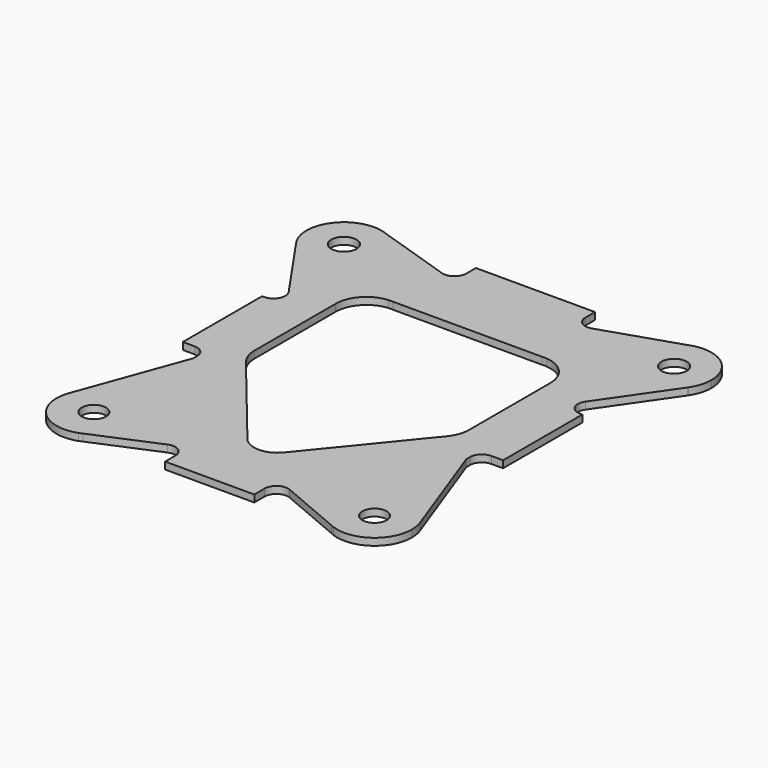
from build123d import *

# Parameters (mm, degrees)
F0_R     = 5.15
F0_R_2   = 5.35
F1_DEPTH = 3


with BuildPart() as f1:
    # F0 (on Top) → F1 (new body)
    with BuildSketch(Plane.XY):
        with BuildLine():
            Line((-18.9, -13), (0, -13))
            Line((0, -13), (18.9, -13))
            Line((18.9, -13), (18.9, -7.5471567511))
            ThreePointArc((18.9, -7.5471567511), (21.1385310794, -3.3789089897), (25.8497157602, -2.9429620925))
            Line((25.8497157602, -2.9429620925), (52.6252323996, -14.2814589745))
            ThreePointArc((52.6252323996, -14.2814589745), (48.8117732228, 11.7040295779), (74.3452534861, 5.5534627876))
            Line((74.3452534861, 5.5534627876), (57.8907951768, 50.621942028))
            Line((57.8907951768, 50.621942028), (57.8907951768, 52.621942028))
            ThreePointArc((57.8907951768, 52.621942028), (59.3552612709, 56.1574759339), (62.8907951768, 57.621942028))
            Line((62.8907951768, 57.621942028), (67.8907951768, 57.621942028))
            Line((67.8907951768, 57.621942028), (67.8907951768, 99.621942028))
            Line((67.8907951768, 99.621942028), (67.0134539994, 99.621942028))
            ThreePointArc((67.0134539994, 99.621942028), (62.5856321018, 102.2993587156), (62.8998598996, 107.4641847308))
            Line((62.8998598996, 107.4641847308), (82.9549976553, 136.4901001683))
            ThreePointArc((82.9549976553, 136.4901001683), (57.5400115252, 135.8254535138), (64.1829778441, 160.3659154829))
            Line((64.1829778441, 160.3659154829), (31.8054457349, 149.7677431215))
            ThreePointArc((31.8054457349, 149.7677431215), (27.315483743, 150.4713614419), (25.25, 154.5196467995))
            Line((25.25, 154.5196467995), (25.25, 159.621942028))
            Line((25.25, 159.621942028), (0, 159.621942028))
            Line((0, 159.621942028), (-25.25, 159.621942028))
            Line((-25.25, 159.621942028), (-25.25, 154.5196467995))
            ThreePointArc((-25.25, 154.5196467995), (-27.315483743, 150.4713614419), (-31.8054457349, 149.7677431215))
            Line((-31.8054457349, 149.7677431215), (-64.1829778441, 160.3659154829))
            ThreePointArc((-64.1829778441, 160.3659154829), (-56.8961398594, 154.5388556989), (-54.15, 145.621942028))
            ThreePointArc((-54.15, 145.621942028), (-65.2101259326, 130.5130173006), (-82.9549976553, 136.4901001683))
            Line((-82.9549976553, 136.4901001683), (-62.8998598996, 107.4641847308))
            ThreePointArc((-62.8998598996, 107.4641847308), (-62.5856321018, 102.2993587156), (-67.0134539994, 99.621942028))
            Line((-67.0134539994, 99.621942028), (-67.8907951768, 99.621942028))
            Line((-67.8907951768, 99.621942028), (-67.8907951768, 57.621942028))
            Line((-67.8907951768, 57.621942028), (-62.8907951768, 57.621942028))
            ThreePointArc((-62.8907951768, 57.621942028), (-59.3552612709, 56.1574759339), (-57.8907951768, 52.621942028))
            Line((-57.8907951768, 52.621942028), (-57.8907951768, 50.621942028))
            Line((-57.8907951768, 50.621942028), (-74.3452534861, 5.5534627876))
            ThreePointArc((-74.3452534861, 5.5534627876), (-56.6781892121, 15.5967908198), (-43.65, 0))
            ThreePointArc((-43.65, 0), (-46.0800974954, -8.4337842495), (-52.6252323996, -14.2814589745))
            Line((-52.6252323996, -14.2814589745), (-25.8497157602, -2.9429620925))
            ThreePointArc((-25.8497157602, -2.9429620925), (-21.1385310794, -3.3789089897), (-18.9, -7.5471567511))
            Line((-18.9, -7.5471567511), (-18.9, -13))
        make_face()
        with BuildLine():
            Line((-31.5007925391, 123.621942028), (0, 123.621942028))
            Line((0, 123.621942028), (31.5007925391, 123.621942028))
            ThreePointArc((31.5007925391, 123.621942028), (32.5003962696, 123.6604300644), (33.5, 123.621942028))
            ThreePointArc((33.5, 123.621942028), (42.0051009072, 119.5295106115), (45.5, 110.7619330287))
            ThreePointArc((45.5, 110.7619330287), (45.5002972018, 110.7111819333), (45.5003962696, 110.6604300644))
            ThreePointArc((45.5003962696, 110.6604300644), (45.5002972018, 110.6096781955), (45.5, 110.5589271001))
            Line((45.5, 110.5589271001), (45.5, 67.6264936436))
            ThreePointArc((45.5, 67.6264936436), (44.7475202166, 63.2677956104), (42.5771925315, 59.413687139))
            Line((42.5771925315, 59.413687139), (7.7516868511, 16.6824568887))
            Line((7.7516868511, 16.6824568887), (0, 7.1710626049))
            Line((0, 7.1710626049), (-7.7516866199, 16.6824566051))
            Line((-7.7516866199, 16.6824566051), (-42.5771925315, 59.413687139))
            ThreePointArc((-42.5771925315, 59.413687139), (-44.7475202166, 63.2677956104), (-45.5, 67.6264936436))
            Line((-45.5, 67.6264936436), (-45.5, 110.5589271001))
            ThreePointArc((-45.5, 110.5589271001), (-45.5003962696, 110.6604300644), (-45.5, 110.7619330287))
            ThreePointArc((-45.5, 110.7619330287), (-42.0051009072, 119.5295106115), (-33.5, 123.621942028))
            ThreePointArc((-33.5, 123.621942028), (-32.5003962696, 123.6604300644), (-31.5007925391, 123.621942028))
        make_face(mode=Mode.SUBTRACT)
        with BuildLine():
            ThreePointArc((74.3452534861, 5.5534627876), (48.8117732228, 11.7040295779), (52.6252323996, -14.2814589745))
            Line((52.6252323996, -14.2814589745), (54.0278478598, -14.8754176733))
            Line((54.0278478598, -14.8754176733), (74.3452534861, 5.5534627876))
        make_face()
        with Locations((59.5, 0)):
            Circle(F0_R, mode=Mode.SUBTRACT)
        with BuildLine():
            Line((54.0278478598, -14.8754176733), (52.6252323996, -14.2814589745))
            ThreePointArc((52.6252323996, -14.2814589745), (53.31940104, -14.5952970678), (54.0278478598, -14.8754176733))
        make_face()
        with BuildLine():
            Line((-54.0278478598, -14.8754176733), (-52.6252323996, -14.2814589745))
            ThreePointArc((-52.6252323996, -14.2814589745), (-46.0800974954, -8.4337842495), (-43.65, 0))
            ThreePointArc((-43.65, 0), (-56.6781892121, 15.5967908198), (-74.3452534861, 5.5534627876))
            Line((-74.3452534861, 5.5534627876), (-54.0278478598, -14.8754176733))
        make_face()
        with Locations((-59.5, 0)):
            Circle(F0_R, mode=Mode.SUBTRACT)
        with BuildLine():
            ThreePointArc((-54.0278478598, -14.8754176733), (-53.31940104, -14.5952970678), (-52.6252323996, -14.2814589745))
            Line((-52.6252323996, -14.2814589745), (-54.0278478598, -14.8754176733))
        make_face()
        with BuildLine():
            Line((74.3452534861, 5.5534627876), (54.0278478598, -14.8754176733))
            ThreePointArc((54.0278478598, -14.8754176733), (68.5688722722, -12.9991559615), (75.35, 0))
            ThreePointArc((75.35, 0), (75.0967908198, 2.8218107879), (74.3452534861, 5.5534627876))
        make_face()
        with BuildLine():
            ThreePointArc((-74.3452534861, 5.5534627876), (-70.7382626073, -11.1769384703), (-54.0278478598, -14.8754176733))
            Line((-54.0278478598, -14.8754176733), (-74.3452534861, 5.5534627876))
        make_face()
        with BuildLine():
            ThreePointArc((64.1829778441, 160.3659154829), (57.5400115252, 135.8254535138), (82.9549976553, 136.4901001683))
            Line((82.9549976553, 136.4901001683), (83.1240413462, 136.7347580678))
            Line((83.1240413462, 136.7347580678), (65.9729166922, 160.9518180885))
            Line((65.9729166922, 160.9518180885), (64.1829778441, 160.3659154829))
        make_face()
        with Locations((70, 145.621942028)):
            Circle(F0_R_2, mode=Mode.SUBTRACT)
        with BuildLine():
            Line((83.1240413462, 136.7347580678), (82.9549976553, 136.4901001683))
            ThreePointArc((82.9549976553, 136.4901001683), (83.0400932966, 136.6120326601), (83.1240413462, 136.7347580678))
        make_face()
        with BuildLine():
            Line((65.9729166922, 160.9518180885), (83.1240413462, 136.7347580678))
            ThreePointArc((83.1240413462, 136.7347580678), (85.1531936459, 140.9740153578), (85.85, 145.621942028))
            ThreePointArc((85.85, 145.621942028), (79.6797011724, 158.1728736752), (65.9729166922, 160.9518180885))
        make_face()
        with BuildLine():
            ThreePointArc((65.9729166922, 160.9518180885), (65.0692370204, 160.6854766875), (64.1829778441, 160.3659154829))
            Line((64.1829778441, 160.3659154829), (65.9729166922, 160.9518180885))
        make_face()
        with BuildLine():
            ThreePointArc((-83.1240413462, 136.7347580678), (-83.0400932966, 136.6120326601), (-82.9549976553, 136.4901001683))
            Line((-82.9549976553, 136.4901001683), (-83.1240413462, 136.7347580678))
        make_face()
        with BuildLine():
            Line((-83.1240413462, 136.7347580678), (-82.9549976553, 136.4901001683))
            ThreePointArc((-82.9549976553, 136.4901001683), (-65.2101259326, 130.5130173006), (-54.15, 145.621942028))
            ThreePointArc((-54.15, 145.621942028), (-56.8961398594, 154.5388556989), (-64.1829778441, 160.3659154829))
            Line((-64.1829778441, 160.3659154829), (-65.9729166922, 160.9518180885))
            Line((-65.9729166922, 160.9518180885), (-83.1240413462, 136.7347580678))
        make_face()
        with Locations((-70, 145.621942028)):
            Circle(F0_R_2, mode=Mode.SUBTRACT)
        with BuildLine():
            ThreePointArc((-65.9729166922, 160.9518180885), (-82.9346496049, 154.7825828134), (-83.1240413462, 136.7347580678))
            Line((-83.1240413462, 136.7347580678), (-65.9729166922, 160.9518180885))
        make_face()
        with BuildLine():
            ThreePointArc((-64.1829778441, 160.3659154829), (-65.0692370204, 160.6854766875), (-65.9729166922, 160.9518180885))
            Line((-65.9729166922, 160.9518180885), (-64.1829778441, 160.3659154829))
        make_face()
        with BuildLine():
            Line((0, 7.1710626049), (7.7516868511, 16.6824568887))
            ThreePointArc((7.7516868511, 16.6824568887), (1.829e-07, 13), (-7.7516866199, 16.6824566051))
            Line((-7.7516866199, 16.6824566051), (0, 7.1710626049))
        make_face()
    extrude(amount=F1_DEPTH)


solid = f1.part
